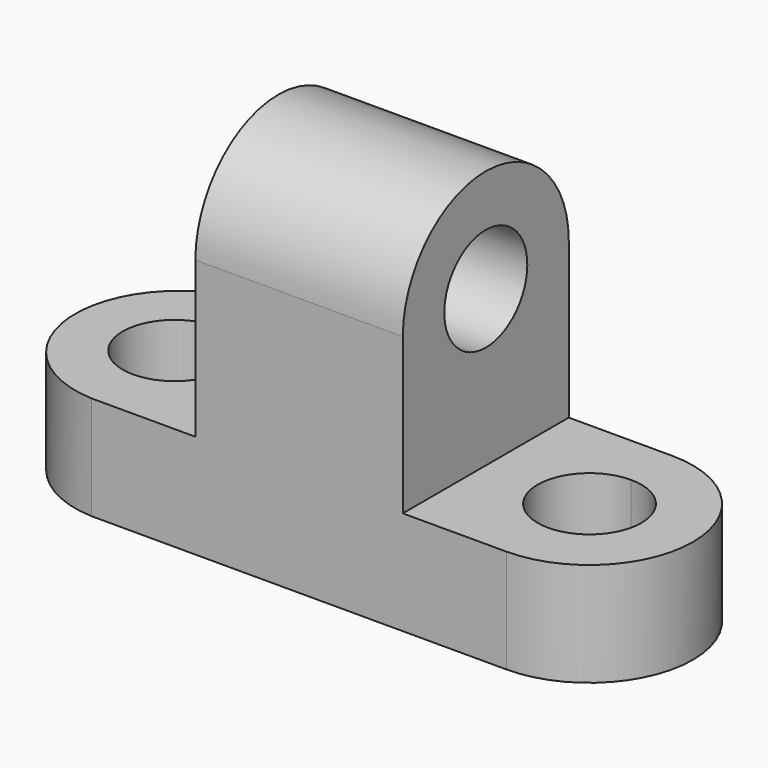
from build123d import *

# Parameters (mm, degrees)
F1_DEPTH = 25.4
F3_DEPTH = 50.801
F5_DEPTH = 12.701
F7_DEPTH = 12.701


with BuildPart() as f1:
    # F0 (on Front) → F1 (new body)
    with BuildSketch(Plane.XZ):
        Polygon((0, 12.7), (0, 0), (76.2, 0), (76.2, 12.7), (50.8, 12.7), (50.8, 44.45), (25.4, 44.45), (25.4, 12.7), align=None)
    extrude(amount=F1_DEPTH)

    # F2 (on face) → F3 (cut, through all)
    with BuildSketch(Plane.YZ.offset(50.8)):
        with BuildLine():
            ThreePointArc((-19.05, 31.75), (-12.7, 25.4), (-6.35, 31.75))
            Line((-6.35, 31.75), (-19.05, 31.75))
        make_face()
        with BuildLine():
            Line((-19.05, 31.75), (-6.35, 31.75))
            ThreePointArc((-6.35, 31.75), (-12.7, 38.1), (-19.05, 31.75))
        make_face()
        with BuildLine():
            ThreePointArc((-25.4, 31.75), (-12.7, 44.4189396796), (0, 31.75))
            Line((0, 31.75), (0, 44.45))
            Line((0, 44.45), (-25.4, 44.45))
            Line((-25.4, 44.45), (-25.4, 31.75))
        make_face()
    extrude(amount=-F3_DEPTH, mode=Mode.SUBTRACT)

    # F4 (on face) → F5 (cut, through all)
    with BuildSketch(Plane.XY.offset(12.7)):
        with BuildLine():
            ThreePointArc((69.85, -12.7), (67.9901280605, -8.2098719395), (63.5, -6.35))
            Line((63.5, -6.35), (63.5, -19.05))
            ThreePointArc((63.5, -19.05), (67.9901280605, -17.1901280605), (69.85, -12.7))
        make_face()
        with BuildLine():
            Line((63.5, -19.05), (63.5, -6.35))
            ThreePointArc((63.5, -6.35), (57.15, -12.7), (63.5, -19.05))
        make_face()
        with BuildLine():
            Line((76.2, 0), (63.5, 0))
            ThreePointArc((63.5, 0), (76.1671814636, -12.7), (63.5, -25.4))
            Line((63.5, -25.4), (76.2, -25.4))
            Line((76.2, -25.4), (76.2, 0))
        make_face()
    extrude(amount=-F5_DEPTH, mode=Mode.SUBTRACT)

    # F6 (on face) → F7 (cut, through all)
    with BuildSketch(Plane.XY.offset(12.7)):
        with BuildLine():
            ThreePointArc((19.05, -12.7), (17.1901280605, -8.2098719395), (12.7, -6.35))
            Line((12.7, -6.35), (12.7, -19.05))
            ThreePointArc((12.7, -19.05), (17.1901280605, -17.1901280605), (19.05, -12.7))
        make_face()
        with BuildLine():
            Line((12.7, -19.05), (12.7, -6.35))
            ThreePointArc((12.7, -6.35), (6.35, -12.7), (12.7, -19.05))
        make_face()
        with BuildLine():
            ThreePointArc((12.7, -25.4), (0.5314257949, -12.7), (12.7, 0))
            Line((12.7, 0), (0, 0))
            Line((0, 0), (0, -25.4))
            Line((0, -25.4), (12.7, -25.4))
        make_face()
    extrude(amount=-F7_DEPTH, mode=Mode.SUBTRACT)


solid = f1.part
